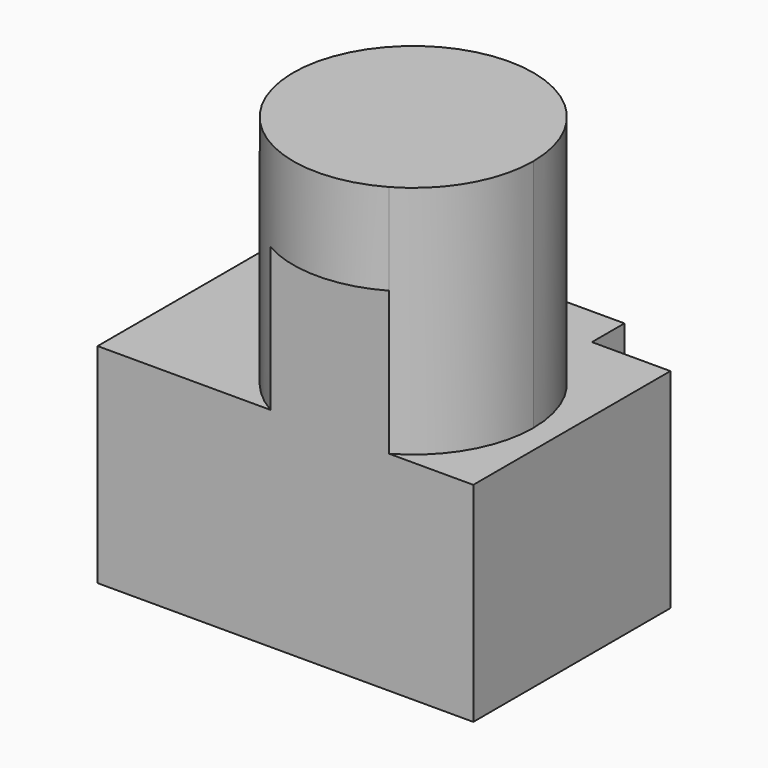
from build123d import *

# Parameters (mm, degrees)
F1_DEPTH = 80
F2_DEPTH = 170
F3_DEPTH = 135


with BuildPart() as f1:
    # F0 (on Top) → F1 (new body)
    with BuildSketch(Plane.XY):
        with BuildLine():
            Line((41.930038482, 39.4312292337), (41.930038482, 55))
            Line((41.930038482, 55), (-13.9003656805, 55))
            Line((-13.9003656805, 55), (-13.9003656805, 39.4312292337))
            Line((-13.9003656805, 39.4312292337), (-72, 39.4312292337))
            Line((-72, 39.4312292337), (-72, -55))
            Line((-72, -55), (-5.7156333832, -55))
            ThreePointArc((-5.7156333832, -55), (-6.1417465241, 24.75499425), (63, -15))
            ThreePointArc((63, -15), (56.75499425, -38.1417465241), (39.7156333832, -55))
            Line((39.7156333832, -55), (72, -55))
            Line((72, -55), (72, 39.4312292337))
            Line((72, 39.4312292337), (41.930038482, 39.4312292337))
        make_face()
    extrude(amount=F1_DEPTH)

    # F0 (on Top) → F2 (join)
    with BuildSketch(Plane.XY):
        with BuildLine():
            ThreePointArc((-5.7156333832, -55), (17, -61), (39.7156333832, -55))
            Line((39.7156333832, -55), (-5.7156333832, -55))
        make_face()
        with BuildLine():
            Line((-5.7156333832, -55), (39.7156333832, -55))
            ThreePointArc((39.7156333832, -55), (56.75499425, -38.1417465241), (63, -15))
            ThreePointArc((63, -15), (-6.1417465241, 24.75499425), (-5.7156333832, -55))
        make_face()
    extrude(amount=F2_DEPTH)

    # F0 (on Top) → F3 (cut)
    with BuildSketch(Plane.XY):
        with BuildLine():
            ThreePointArc((-5.7156333832, -55), (17, -61), (39.7156333832, -55))
            Line((39.7156333832, -55), (-5.7156333832, -55))
        make_face()
    extrude(amount=F3_DEPTH, mode=Mode.SUBTRACT)


solid = f1.part
